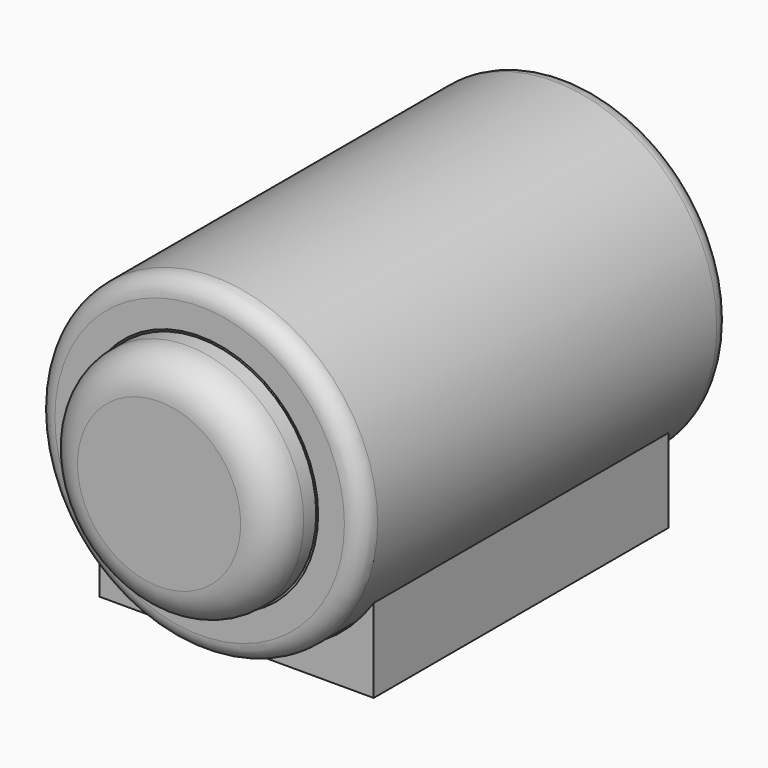
from build123d import *

# Parameters (mm, degrees)
F0_R      = 44.975712
F0_R_2    = 32.657182
F1_DEPTH  = 63.5
F2_R      = 32.130585
F3_DEPTH  = 13.97
F4_R      = 9.652
F5_R      = 5.08
F6_R      = 32.28902
F7_DEPTH  = 3.81
F8_R      = 5.08
F10_DEPTH = 50.8


with BuildPart() as f1:
    # F0 (on Front) → F1 (new body, symmetric)
    with BuildSketch(Plane.XZ):
        Circle(F0_R)
        Circle(F0_R_2, mode=Mode.SUBTRACT)
    extrude(amount=F1_DEPTH, both=True)

    # F5
    f5_edges = [f1.edges().sort_by_distance(p)[0] for p in [
        (-44.975712, 63.5, 0),
    ]]
    fillet(f5_edges, radius=F5_R)

    # F8
    f8_edges = [f1.edges().sort_by_distance(p)[0] for p in [
        (-44.975712, -63.5, 0),
    ]]
    fillet(f8_edges, radius=F8_R)


with BuildPart() as f3:
    # F2 (on face) → F3 (new body)
    with BuildSketch(Plane.XZ.offset(63.5)):
        Circle(F2_R)
    extrude(amount=F3_DEPTH)

    # F4
    f4_edges = [f3.edges().sort_by_distance(p)[0] for p in [
        (-32.130585, -77.47, 0),
    ]]
    fillet(f4_edges, radius=F4_R)


with BuildPart() as f7:
    # F6 (on face) → F7 (new body)
    with BuildSketch(Plane(origin=(0, 63.5, 0), x_dir=(-1, 0, 0), z_dir=(0, 1, 0))):
        Circle(F6_R)
    extrude(amount=F7_DEPTH)


with BuildPart() as f10:
    # F9 (on Front) → F10 (new body, symmetric)
    with BuildSketch(Plane.XZ):
        with BuildLine():
            ThreePointArc((37.795421, -25.003126), (0.062386, -45.394918), (-37.795421, -25.235713))
            Line((-37.795421, -25.235713), (-37.795421, -48.029263))
            Line((-37.795421, -48.029263), (37.795421, -48.029263))
            Line((37.795421, -48.029263), (37.795421, -25.003126))
        make_face()
    extrude(amount=F10_DEPTH, both=True)


solid = Compound([f1.part, f3.part, f7.part, f10.part])
